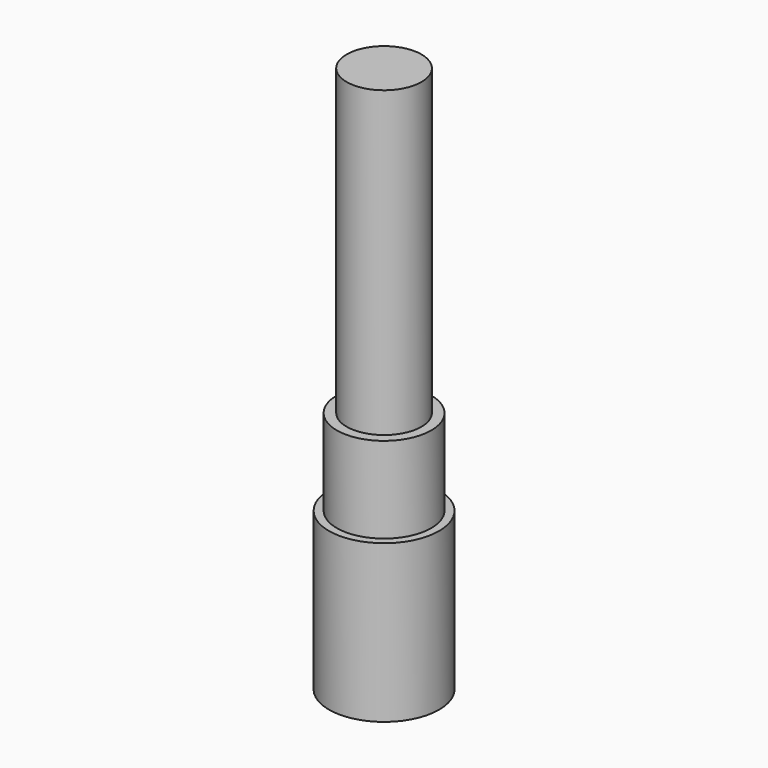
from build123d import *

# Parameters (mm, degrees)
F0_R     = 15.38
F0_R_2   = 13.2
F1_DEPTH = 43.96
F0_R_3   = 10.45
F3_DEPTH = 68
F2_DEPTH = 152.8


with BuildPart() as f1:
    # F0 (on Top) → F1 (new body)
    with BuildSketch(Plane.XY):
        Circle(F0_R)
        Circle(F0_R_2, mode=Mode.SUBTRACT)
    extrude(amount=F1_DEPTH)

    # F0 (on Top) → F3 (join)
    with BuildSketch(Plane.XY):
        Circle(F0_R_2)
        Circle(F0_R_3, mode=Mode.SUBTRACT)
    extrude(amount=F3_DEPTH)

    # F0 (on Top) → F2 (join)
    with BuildSketch(Plane.XY):
        Circle(F0_R_3)
    extrude(amount=F2_DEPTH)


solid = f1.part
